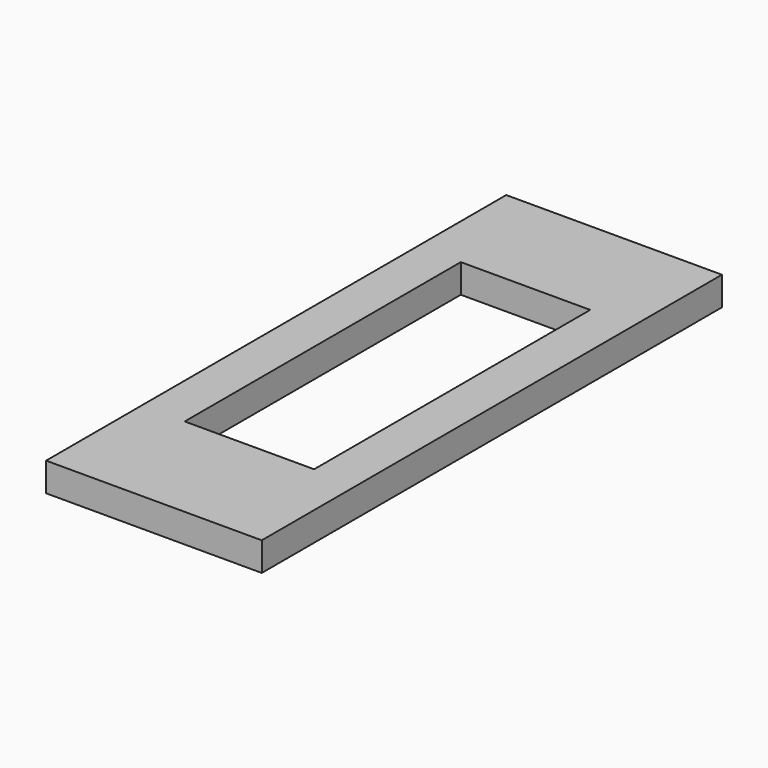
from build123d import *

# Parameters (mm, degrees)
BOX013_W     = 9
BOX013_H     = 24
BOX013_DEPTH = 2
BOX012_W     = 15
BOX012_H     = 40
BOX012_DEPTH = 2


with BuildPart() as cube013:
    # Box013 → Box013 (new body)
    with BuildSketch(Plane(origin=(1.5, -9, 0), x_dir=(1, 0, 0), z_dir=(0, 0, 1))):
        with Locations((4.5, 12)):
            Rectangle(BOX013_W, BOX013_H)
    extrude(amount=BOX013_DEPTH)


with BuildPart() as obj1:
    # Box012 → Box012 (new body)
    with BuildSketch(Plane(origin=(-1.5, -17.3, 0), x_dir=(1, 0, 0), z_dir=(0, 0, 1))):
        with Locations((7.5, 20)):
            Rectangle(BOX012_W, BOX012_H)
    extrude(amount=BOX012_DEPTH)

    # Cut014: cut Cube013
    add(cube013.part, mode=Mode.SUBTRACT)


solid = obj1.part
